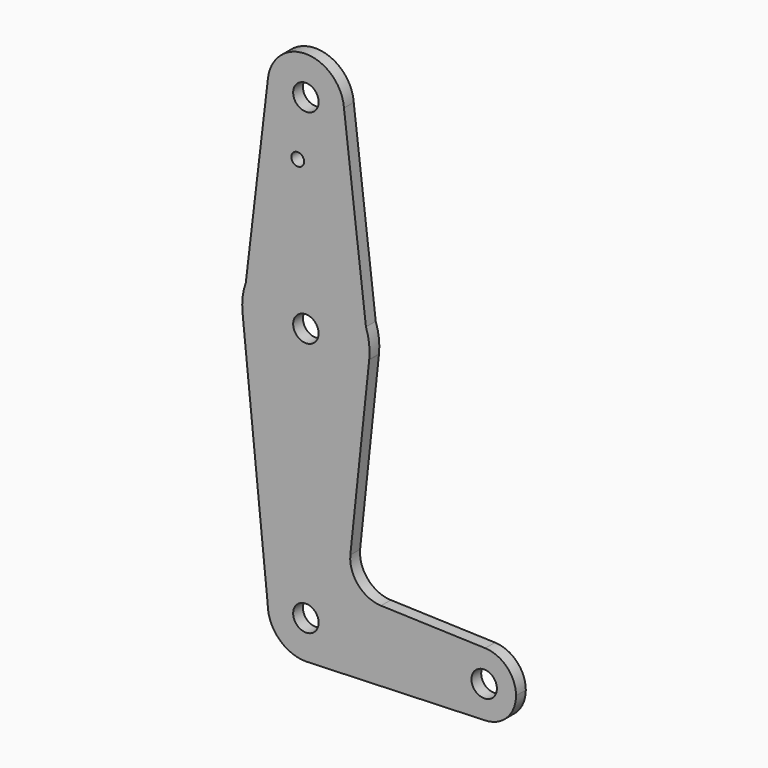
from build123d import *

# Parameters (mm, degrees)
F0_R     = 3.175
F0_R_2   = 1.5875
F1_DEPTH = 3.048
F2_DEPTH = 3.048


with BuildPart() as f1:
    # F0 (on Front) → F1 (new body)
    with BuildSketch(Plane.XZ):
        with BuildLine():
            ThreePointArc((-9.4969280096, 115.0307416647), (-0.3656403346, 104.7820205849), (9.525, 114.3))
            ThreePointArc((9.525, 114.3), (9.5179794151, 114.6656403346), (9.4969280096, 115.0307416647))
            ThreePointArc((9.4969280096, 115.0307416647), (0, 123.825), (-9.4969280096, 115.0307416647))
        make_face()
        with Locations((0, 114.3)):
            Circle(F0_R, mode=Mode.SUBTRACT)
        with BuildLine():
            ThreePointArc((9.4969280096, 115.0307416647), (9.5179794151, 114.6656403346), (9.525, 114.3))
            ThreePointArc((9.525, 114.3), (-0.3656403346, 104.7820205849), (-9.4969280096, 115.0307416647))
            Line((-9.4969280096, 115.0307416647), (-14.9762676177, 68.7656465171))
            ThreePointArc((-14.9762676177, 68.7656465171), (0, 79.375), (14.9762676177, 68.7656465171))
            Line((14.9762676177, 68.7656465171), (9.4969280096, 115.0307416647))
        make_face()
        with Locations((-2.0328424871, 100.0252)):
            Circle(F0_R_2, mode=Mode.SUBTRACT)
        with BuildLine():
            Line((11.0780963737, 17.4487156546), (15.7919553908, 61.8783434599))
            ThreePointArc((15.7919553908, 61.8783434599), (0, 47.625), (-15.7919553908, 61.8783434599))
            Line((-15.7919553908, 61.8783434599), (-9.525, 0))
            ThreePointArc((-9.525, 0), (0, 9.525), (9.525, 0))
            ThreePointArc((9.525, 0), (6.9705567315, -6.4912990883), (0.6773435479, -9.500885786))
            Line((0.6773435479, -9.500885786), (44.7324052746, -7.9324746146))
            ThreePointArc((44.7324052746, -7.9324746146), (36.5125028113, -0.0066804672), (44.7190524039, 7.9329387401))
            Line((44.7190524039, 7.9329387401), (18.7289301522, 8.8144159704))
            ThreePointArc((18.7289301522, 8.8144159704), (13.0481200267, 11.4875059856), (11.0780963737, 17.4487156546))
        make_face()
        with BuildLine():
            Line((15.7919553908, 61.8783434599), (14.9762676177, 68.7656465171))
            ThreePointArc((14.9762676177, 68.7656465171), (0, 79.375), (-14.9762676177, 68.7656465171))
            Line((-14.9762676177, 68.7656465171), (-15.7919553908, 61.8783434599))
            ThreePointArc((-15.7919553908, 61.8783434599), (0, 47.625), (15.7919553908, 61.8783434599))
        make_face()
        with Locations((0, 63.5)):
            Circle(F0_R, mode=Mode.SUBTRACT)
        with BuildLine():
            ThreePointArc((15.875, 63.5), (15.6487039948, 66.170896532), (14.9762676177, 68.7656465171))
            Line((14.9762676177, 68.7656465171), (15.7919553908, 61.8783434599))
            ThreePointArc((15.7919553908, 61.8783434599), (15.8542252543, 62.6881092529), (15.875, 63.5))
        make_face()
        with BuildLine():
            Line((-15.7919553908, 61.8783434599), (-14.9762676177, 68.7656465171))
            ThreePointArc((-14.9762676177, 68.7656465171), (-15.7648223151, 65.3670839226), (-15.7919553908, 61.8783434599))
        make_face()
        with BuildLine():
            ThreePointArc((9.525, 0), (0, 9.525), (-9.525, 0))
            ThreePointArc((-9.525, 0), (-6.7351920908, -6.7351920908), (0, -9.525))
            Line((0, -9.525), (0.6773435479, -9.500885786))
            ThreePointArc((0.6773435479, -9.500885786), (6.9705567315, -6.4912990883), (9.525, 0))
        make_face()
        Circle(F0_R, mode=Mode.SUBTRACT)
        with BuildLine():
            Line((0.6773435479, -9.500885786), (0, -9.525))
            ThreePointArc((0, -9.525), (0.3388863295, -9.5189695375), (0.6773435479, -9.500885786))
        make_face()
        with BuildLine():
            ThreePointArc((52.3875, 0), (50.1569917516, 5.516715635), (44.7190524039, 7.9329387401))
            ThreePointArc((44.7190524039, 7.9329387401), (36.5125028113, -0.0066804672), (44.7324052746, -7.9324746146))
            ThreePointArc((44.7324052746, -7.9324746146), (50.1616327839, -5.5119104847), (52.3875, 0))
        make_face()
        with Locations((44.45, 0)):
            Circle(F0_R, mode=Mode.SUBTRACT)
    extrude(amount=F1_DEPTH)


with BuildPart() as f2:
    # F0 (on Front) → F2 (new body)
    with BuildSketch(Plane.XZ):
        with BuildLine():
            ThreePointArc((-9.4969280096, 115.0307416647), (-0.3656403346, 104.7820205849), (9.525, 114.3))
            ThreePointArc((9.525, 114.3), (9.5179794151, 114.6656403346), (9.4969280096, 115.0307416647))
            ThreePointArc((9.4969280096, 115.0307416647), (0, 123.825), (-9.4969280096, 115.0307416647))
        make_face()
        with Locations((0, 114.3)):
            Circle(F0_R, mode=Mode.SUBTRACT)
        with BuildLine():
            ThreePointArc((9.4969280096, 115.0307416647), (9.5179794151, 114.6656403346), (9.525, 114.3))
            ThreePointArc((9.525, 114.3), (-0.3656403346, 104.7820205849), (-9.4969280096, 115.0307416647))
            Line((-9.4969280096, 115.0307416647), (-14.9762676177, 68.7656465171))
            ThreePointArc((-14.9762676177, 68.7656465171), (0, 79.375), (14.9762676177, 68.7656465171))
            Line((14.9762676177, 68.7656465171), (9.4969280096, 115.0307416647))
        make_face()
        with Locations((-2.0328424871, 100.0252)):
            Circle(F0_R_2, mode=Mode.SUBTRACT)
        with BuildLine():
            Line((11.0780963737, 17.4487156546), (15.7919553908, 61.8783434599))
            ThreePointArc((15.7919553908, 61.8783434599), (0, 47.625), (-15.7919553908, 61.8783434599))
            Line((-15.7919553908, 61.8783434599), (-9.525, 0))
            ThreePointArc((-9.525, 0), (0, 9.525), (9.525, 0))
            ThreePointArc((9.525, 0), (6.9705567315, -6.4912990883), (0.6773435479, -9.500885786))
            Line((0.6773435479, -9.500885786), (44.7324052746, -7.9324746146))
            ThreePointArc((44.7324052746, -7.9324746146), (36.5125028113, -0.0066804672), (44.7190524039, 7.9329387401))
            Line((44.7190524039, 7.9329387401), (18.7289301522, 8.8144159704))
            ThreePointArc((18.7289301522, 8.8144159704), (13.0481200267, 11.4875059856), (11.0780963737, 17.4487156546))
        make_face()
        with BuildLine():
            Line((15.7919553908, 61.8783434599), (14.9762676177, 68.7656465171))
            ThreePointArc((14.9762676177, 68.7656465171), (0, 79.375), (-14.9762676177, 68.7656465171))
            Line((-14.9762676177, 68.7656465171), (-15.7919553908, 61.8783434599))
            ThreePointArc((-15.7919553908, 61.8783434599), (0, 47.625), (15.7919553908, 61.8783434599))
        make_face()
        with Locations((0, 63.5)):
            Circle(F0_R, mode=Mode.SUBTRACT)
        with BuildLine():
            ThreePointArc((15.875, 63.5), (15.6487039948, 66.170896532), (14.9762676177, 68.7656465171))
            Line((14.9762676177, 68.7656465171), (15.7919553908, 61.8783434599))
            ThreePointArc((15.7919553908, 61.8783434599), (15.8542252543, 62.6881092529), (15.875, 63.5))
        make_face()
        with BuildLine():
            Line((-15.7919553908, 61.8783434599), (-14.9762676177, 68.7656465171))
            ThreePointArc((-14.9762676177, 68.7656465171), (-15.7648223151, 65.3670839226), (-15.7919553908, 61.8783434599))
        make_face()
        with BuildLine():
            ThreePointArc((9.525, 0), (0, 9.525), (-9.525, 0))
            ThreePointArc((-9.525, 0), (-6.7351920908, -6.7351920908), (0, -9.525))
            Line((0, -9.525), (0.6773435479, -9.500885786))
            ThreePointArc((0.6773435479, -9.500885786), (6.9705567315, -6.4912990883), (9.525, 0))
        make_face()
        Circle(F0_R, mode=Mode.SUBTRACT)
        with BuildLine():
            Line((0.6773435479, -9.500885786), (0, -9.525))
            ThreePointArc((0, -9.525), (0.3388863295, -9.5189695375), (0.6773435479, -9.500885786))
        make_face()
        with BuildLine():
            ThreePointArc((52.3875, 0), (50.1569917516, 5.516715635), (44.7190524039, 7.9329387401))
            ThreePointArc((44.7190524039, 7.9329387401), (36.5125028113, -0.0066804672), (44.7324052746, -7.9324746146))
            ThreePointArc((44.7324052746, -7.9324746146), (50.1616327839, -5.5119104847), (52.3875, 0))
        make_face()
        with Locations((44.45, 0)):
            Circle(F0_R, mode=Mode.SUBTRACT)
    extrude(amount=F2_DEPTH)


solid = Compound([f1.part, f2.part])
